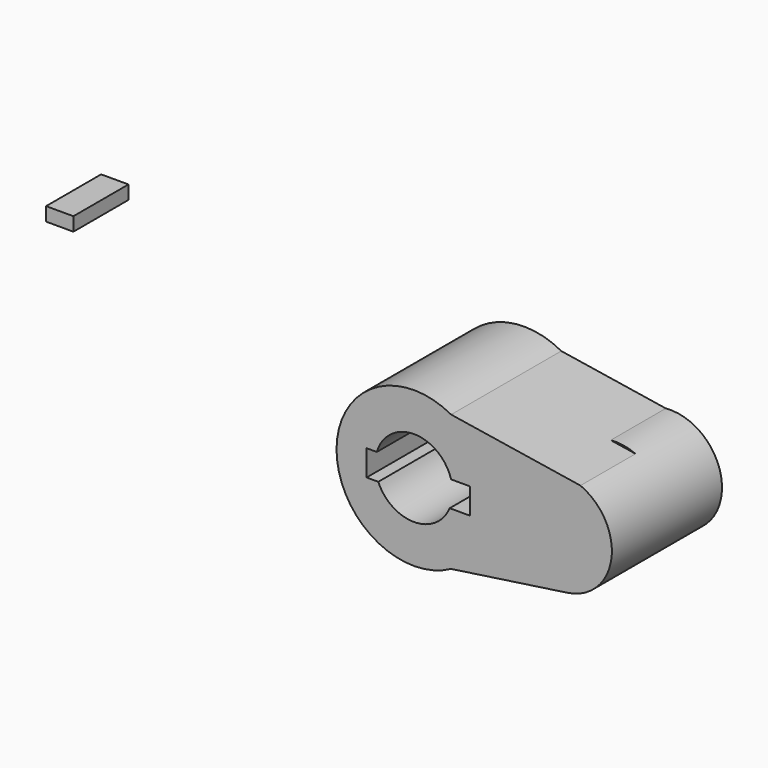
from build123d import *

# Parameters (mm, degrees)
F0_R     = 14.2875
F1_DEPTH = 25.4
F2_DEPTH = 25.4
F3_DEPTH = 25.4
F5_DEPTH = 25.4
F0_W     = 10.0799947977
F0_H     = 5.0400011241


with BuildPart() as f1:
    # F0 (on Front) → F1 (new body)
    with BuildSketch(Plane.XZ):
        with BuildLine():
            ThreePointArc((13.7108012033, -25.0707908803), (24.5796335345, -14.572996957), (28.575, 0))
            ThreePointArc((28.575, 0), (24.5796335345, 14.572996957), (13.7108012033, 25.0707908803))
            ThreePointArc((13.7108012033, 25.0707908803), (-28.575, 0), (13.7108012033, -25.0707908803))
        make_face()
        with BuildLine():
            ThreePointArc((-13.7124942196, 4.0125002839), (0, 14.2875), (13.7124942196, 4.0125002839))
            Line((13.7124942196, 4.0125002839), (20.6174994767, 4.0125002839))
            Line((20.6174994767, 4.0125002839), (20.6174994767, -5.5124997161))
            Line((20.6174994767, -5.5124997161), (13.181236783, -5.5124997161))
            ThreePointArc((13.181236783, -5.5124997161), (0, -14.2875), (-13.181236783, -5.5124997161))
            Line((-13.181236783, -5.5124997161), (-17.4825005233, -5.5124997161))
            Line((-17.4825005233, -5.5124997161), (-17.4825005233, 4.0125002839))
            Line((-17.4825005233, 4.0125002839), (-13.7124942196, 4.0125002839))
        make_face(mode=Mode.SUBTRACT)
        with BuildLine():
            Line((61.4379927645, 17.5272998205), (52.2812851863, 18.9745574423))
            ThreePointArc((52.2812851863, 18.9745574423), (35.0537329802, -2.2109170872), (56.7014723756, -18.8538815204))
            ThreePointArc((56.7014723756, -18.8538815204), (68.3771144065, -12.4692261437), (73.025, 0))
            ThreePointArc((73.025, 0), (69.8663893691, 10.5055339664), (61.4379927645, 17.5272998205))
        make_face()
        with Locations((53.975, 0)):
            Circle(F0_R, mode=Mode.SUBTRACT)
        with BuildLine():
            ThreePointArc((13.7108012033, 25.0707908803), (24.5796335345, 14.572996957), (28.575, 0))
            ThreePointArc((28.575, 0), (24.5796335345, -14.572996957), (13.7108012033, -25.0707908803))
            Line((13.7108012033, -25.0707908803), (56.7014723756, -18.8538815204))
            ThreePointArc((56.7014723756, -18.8538815204), (35.0537329802, -2.2109170872), (52.2812851863, 18.9745574423))
            Line((52.2812851863, 18.9745574423), (13.7108012033, 25.0707908803))
        make_face()
        with Locations((53.975, 0)):
            Circle(F0_R)
    extrude(amount=F1_DEPTH)

    # F0 (on Front) → F2 (join)
    with BuildSketch(Plane.XZ):
        with BuildLine():
            ThreePointArc((13.7108012033, -25.0707908803), (24.5796335345, -14.572996957), (28.575, 0))
            ThreePointArc((28.575, 0), (24.5796335345, 14.572996957), (13.7108012033, 25.0707908803))
            ThreePointArc((13.7108012033, 25.0707908803), (-28.575, 0), (13.7108012033, -25.0707908803))
        make_face()
        with BuildLine():
            ThreePointArc((-13.7124942196, 4.0125002839), (0, 14.2875), (13.7124942196, 4.0125002839))
            Line((13.7124942196, 4.0125002839), (20.6174994767, 4.0125002839))
            Line((20.6174994767, 4.0125002839), (20.6174994767, -5.5124997161))
            Line((20.6174994767, -5.5124997161), (13.181236783, -5.5124997161))
            ThreePointArc((13.181236783, -5.5124997161), (0, -14.2875), (-13.181236783, -5.5124997161))
            Line((-13.181236783, -5.5124997161), (-17.4825005233, -5.5124997161))
            Line((-17.4825005233, -5.5124997161), (-17.4825005233, 4.0125002839))
            Line((-17.4825005233, 4.0125002839), (-13.7124942196, 4.0125002839))
        make_face(mode=Mode.SUBTRACT)
    extrude(amount=F2_DEPTH)

    # F0 (on Front) → F3 (join)
    with BuildSketch(Plane.XZ):
        with BuildLine():
            ThreePointArc((13.7108012033, 25.0707908803), (24.5796335345, 14.572996957), (28.575, 0))
            ThreePointArc((28.575, 0), (24.5796335345, -14.572996957), (13.7108012033, -25.0707908803))
            Line((13.7108012033, -25.0707908803), (56.7014723756, -18.8538815204))
            ThreePointArc((56.7014723756, -18.8538815204), (35.0537329802, -2.2109170872), (52.2812851863, 18.9745574423))
            Line((52.2812851863, 18.9745574423), (13.7108012033, 25.0707908803))
        make_face()
        with BuildLine():
            ThreePointArc((13.7108012033, -25.0707908803), (24.5796335345, -14.572996957), (28.575, 0))
            ThreePointArc((28.575, 0), (24.5796335345, 14.572996957), (13.7108012033, 25.0707908803))
            ThreePointArc((13.7108012033, 25.0707908803), (-28.575, 0), (13.7108012033, -25.0707908803))
        make_face()
        with BuildLine():
            ThreePointArc((-13.7124942196, 4.0125002839), (0, 14.2875), (13.7124942196, 4.0125002839))
            Line((13.7124942196, 4.0125002839), (20.6174994767, 4.0125002839))
            Line((20.6174994767, 4.0125002839), (20.6174994767, -5.5124997161))
            Line((20.6174994767, -5.5124997161), (13.181236783, -5.5124997161))
            ThreePointArc((13.181236783, -5.5124997161), (0, -14.2875), (-13.181236783, -5.5124997161))
            Line((-13.181236783, -5.5124997161), (-17.4825005233, -5.5124997161))
            Line((-17.4825005233, -5.5124997161), (-17.4825005233, 4.0125002839))
            Line((-17.4825005233, 4.0125002839), (-13.7124942196, 4.0125002839))
        make_face(mode=Mode.SUBTRACT)
        with BuildLine():
            Line((61.4379927645, 17.5272998205), (52.2812851863, 18.9745574423))
            ThreePointArc((52.2812851863, 18.9745574423), (35.0537329802, -2.2109170872), (56.7014723756, -18.8538815204))
            ThreePointArc((56.7014723756, -18.8538815204), (68.3771144065, -12.4692261437), (73.025, 0))
            ThreePointArc((73.025, 0), (69.8663893691, 10.5055339664), (61.4379927645, 17.5272998205))
        make_face()
        with Locations((53.975, 0)):
            Circle(F0_R, mode=Mode.SUBTRACT)
    extrude(amount=F3_DEPTH)

    # F4 (on face) + F0 (on Front) → F5 (join)
    with BuildSketch(Plane.XZ.offset(25.4)):
        with BuildLine():
            Line((61.4379927645, 17.5272998205), (13.7108012033, 25.0707908803))
            ThreePointArc((13.7108012033, 25.0707908803), (-28.575, 0), (13.7108012033, -25.0707908803))
            Line((13.7108012033, -25.0707908803), (56.7014723756, -18.8538815204))
            ThreePointArc((56.7014723756, -18.8538815204), (72.8655767223, -2.459392425), (61.4379927645, 17.5272998205))
        make_face()
        with BuildLine():
            Line((-17.4825005233, 4.0125002839), (-13.7124942196, 4.0125002839))
            ThreePointArc((-13.7124942196, 4.0125002839), (0, 14.2875), (13.7124942196, 4.0125002839))
            Line((13.7124942196, 4.0125002839), (20.6174994767, 4.0125002839))
            Line((20.6174994767, 4.0125002839), (20.6174994767, -5.5124997161))
            Line((20.6174994767, -5.5124997161), (13.181236783, -5.5124997161))
            ThreePointArc((13.181236783, -5.5124997161), (0, -14.2875), (-13.181236783, -5.5124997161))
            Line((-13.181236783, -5.5124997161), (-17.4825005233, -5.5124997161))
            Line((-17.4825005233, -5.5124997161), (-17.4825005233, 4.0125002839))
        make_face(mode=Mode.SUBTRACT)
    with BuildSketch(Plane.XZ):
        with BuildLine():
            ThreePointArc((13.7108012033, -25.0707908803), (24.5796335345, -14.572996957), (28.575, 0))
            ThreePointArc((28.575, 0), (24.5796335345, 14.572996957), (13.7108012033, 25.0707908803))
            ThreePointArc((13.7108012033, 25.0707908803), (-28.575, 0), (13.7108012033, -25.0707908803))
        make_face()
        with BuildLine():
            ThreePointArc((-13.7124942196, 4.0125002839), (0, 14.2875), (13.7124942196, 4.0125002839))
            Line((13.7124942196, 4.0125002839), (20.6174994767, 4.0125002839))
            Line((20.6174994767, 4.0125002839), (20.6174994767, -5.5124997161))
            Line((20.6174994767, -5.5124997161), (13.181236783, -5.5124997161))
            ThreePointArc((13.181236783, -5.5124997161), (0, -14.2875), (-13.181236783, -5.5124997161))
            Line((-13.181236783, -5.5124997161), (-17.4825005233, -5.5124997161))
            Line((-17.4825005233, -5.5124997161), (-17.4825005233, 4.0125002839))
            Line((-17.4825005233, 4.0125002839), (-13.7124942196, 4.0125002839))
        make_face(mode=Mode.SUBTRACT)
        with BuildLine():
            ThreePointArc((13.7108012033, 25.0707908803), (24.5796335345, 14.572996957), (28.575, 0))
            ThreePointArc((28.575, 0), (24.5796335345, -14.572996957), (13.7108012033, -25.0707908803))
            Line((13.7108012033, -25.0707908803), (56.7014723756, -18.8538815204))
            ThreePointArc((56.7014723756, -18.8538815204), (35.0537329802, -2.2109170872), (52.2812851863, 18.9745574423))
            Line((52.2812851863, 18.9745574423), (13.7108012033, 25.0707908803))
        make_face()
        with BuildLine():
            Line((61.4379927645, 17.5272998205), (52.2812851863, 18.9745574423))
            ThreePointArc((52.2812851863, 18.9745574423), (35.0537329802, -2.2109170872), (56.7014723756, -18.8538815204))
            ThreePointArc((56.7014723756, -18.8538815204), (68.3771144065, -12.4692261437), (73.025, 0))
            ThreePointArc((73.025, 0), (69.8663893691, 10.5055339664), (61.4379927645, 17.5272998205))
        make_face()
        with Locations((53.975, 0)):
            Circle(F0_R, mode=Mode.SUBTRACT)
        with BuildLine():
            ThreePointArc((61.4379927645, 17.5272998205), (56.9490175982, 18.8164215335), (52.2812851863, 18.9745574423))
            Line((52.2812851863, 18.9745574423), (61.4379927645, 17.5272998205))
        make_face()
    extrude(amount=F5_DEPTH)


with BuildPart() as f5:
    # F0 (on Front) → F5, piece 2 (new body)
    with BuildSketch(Plane.XZ):
        with Locations((-151.0424986482, 24.7274991125)):
            Rectangle(F0_W, F0_H)
    extrude(amount=F5_DEPTH)


solid = Compound([f1.part, f5.part])
